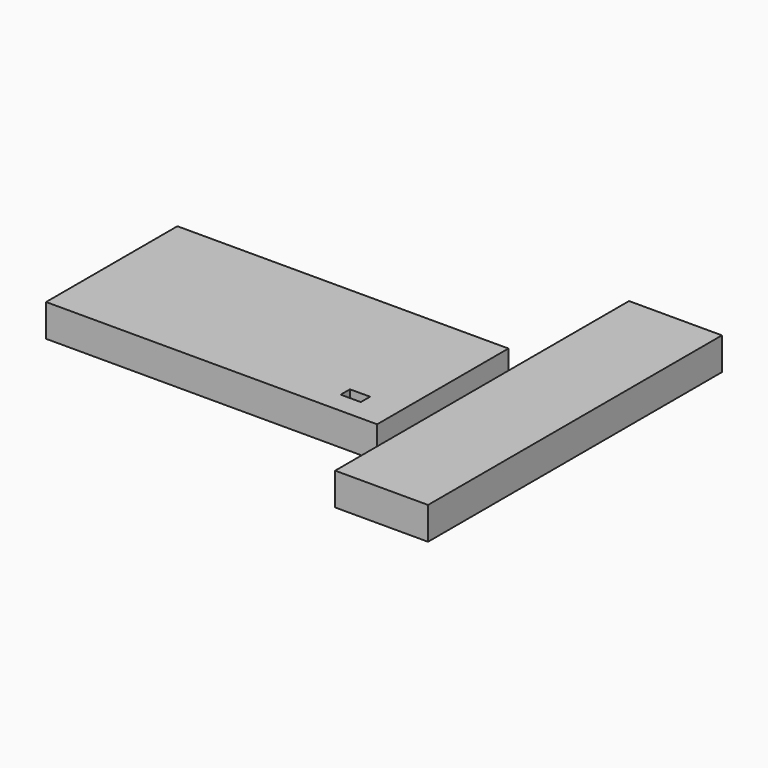
from build123d import *

# Parameters (mm, degrees)
F0_W     = 259.372175
F0_H     = 128.597468
F0_W_2   = 15.755439
F0_H_2   = 9.096414
F0_W_3   = 72.790148
F0_H_3   = 287.810274
F1_DEPTH = 25.4


with BuildPart() as f1:
    # F0 (on Top) → F1 (new body)
    with BuildSketch(Plane.XY):
        with Locations((-129.686087, 64.298734)):
            Rectangle(F0_W, F0_H)
        with Locations((-34.084255, 21.285577)):
            Rectangle(F0_W_2, F0_H_2, mode=Mode.SUBTRACT)
        with Locations((54.704367, 79.900261)):
            Rectangle(F0_W_3, F0_H_3)
        with Locations((-129.686087, 64.298734)):
            Rectangle(F0_W, F0_H)
        with Locations((-34.084255, 21.285577)):
            Rectangle(F0_W_2, F0_H_2, mode=Mode.SUBTRACT)
    extrude(amount=F1_DEPTH)


solid = f1.part
